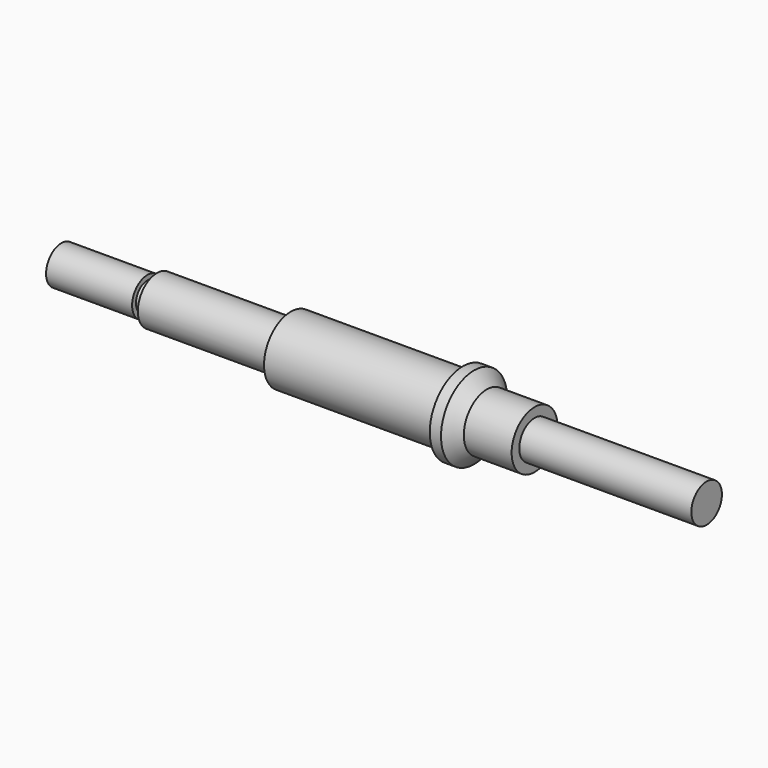
from build123d import *


with BuildPart() as f1:
    # F0 (on Front) → F1 (revolve)
    with BuildSketch(Plane.XZ):
        Polygon((-61.822638, -4.070555), (73.177362, -4.070555), (73.177362, -0.070555), (37.177362, -0.070555), (37.177362, 1.929445), (27.177362, 1.929445), (24.526414, 4.580393), (22.177362, 4.580393), (22.177362, 2.929445), (-13.822638, 2.929445), (-13.822638, 0.929445), (-41.822638, 0.929445), (-41.822638, -1.070555), (-43.822638, -1.070555), (-43.822638, -0.070555), (-61.822638, -0.070555), align=None)
    revolve(axis=Axis((5.677362, 0, -4.070555), (1, 0, 0)))


solid = f1.part
